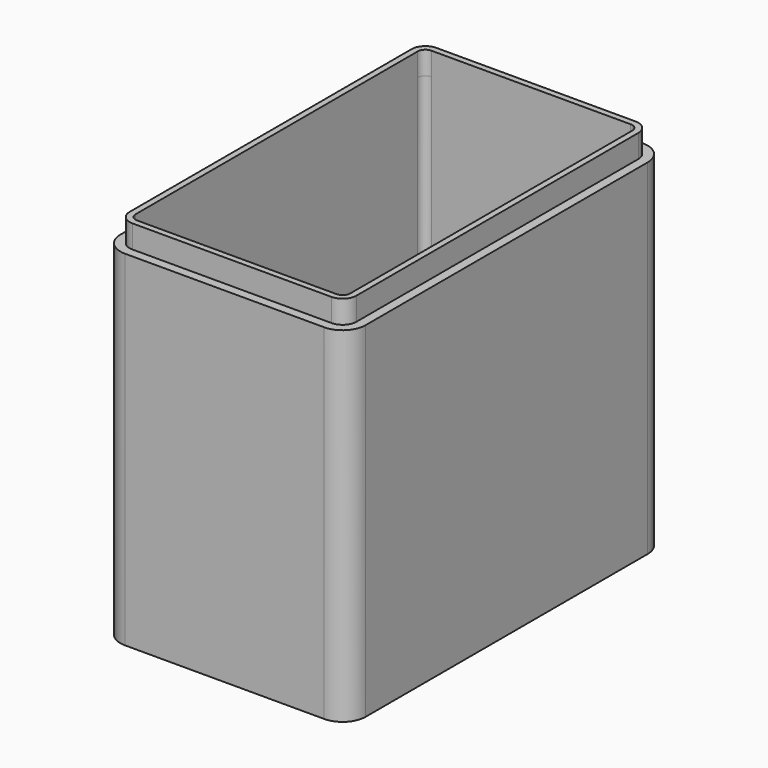
from build123d import *

# Parameters (mm, degrees)
F1_DEPTH = 45
F2_T     = -2
F4_DEPTH = 3


with BuildPart() as f1:
    # F0 (on Top) → F1 (new body)
    with BuildSketch(Plane.XY):
        with BuildLine():
            ThreePointArc((0, 3), (0.87868, 0.87868), (3, 0))
            Line((3, 0), (29, 0))
            ThreePointArc((29, 0), (31.12132, 0.87868), (32, 3))
            Line((32, 3), (32, 49))
            ThreePointArc((32, 49), (31.12132, 51.12132), (29, 52))
            Line((29, 52), (3, 52))
            ThreePointArc((3, 52), (0.87868, 51.12132), (0, 49))
            Line((0, 49), (0, 3))
        make_face()
    extrude(amount=F1_DEPTH)

    # F2
    f2_openings = [f1.faces().sort_by_distance(p)[0] for p in [
        (16, 26, 45),
    ]]
    offset(amount=F2_T, openings=f2_openings)

    # F3 (on face) → F4 (join)
    with BuildSketch(Plane.XY.offset(45)):
        with BuildLine():
            Line((29, 50.8), (3, 50.8))
            ThreePointArc((3, 50.8), (1.727208, 50.272792), (1.2, 49))
            Line((1.2, 49), (1.2, 3))
            ThreePointArc((1.2, 3), (1.727208, 1.727208), (3, 1.2))
            Line((3, 1.2), (29, 1.2))
            ThreePointArc((29, 1.2), (30.272792, 1.727208), (30.8, 3))
            Line((30.8, 3), (30.8, 49))
            ThreePointArc((30.8, 49), (30.272792, 50.272792), (29, 50.8))
        make_face()
        with BuildLine():
            Line((29, 2), (3, 2))
            ThreePointArc((3, 2), (2.292893, 2.292893), (2, 3))
            Line((2, 3), (2, 49))
            ThreePointArc((2, 49), (2.292893, 49.707107), (3, 50))
            Line((3, 50), (29, 50))
            ThreePointArc((29, 50), (29.707107, 49.707107), (30, 49))
            Line((30, 49), (30, 3))
            ThreePointArc((30, 3), (29.707107, 2.292893), (29, 2))
        make_face(mode=Mode.SUBTRACT)
    extrude(amount=F4_DEPTH)


solid = f1.part
